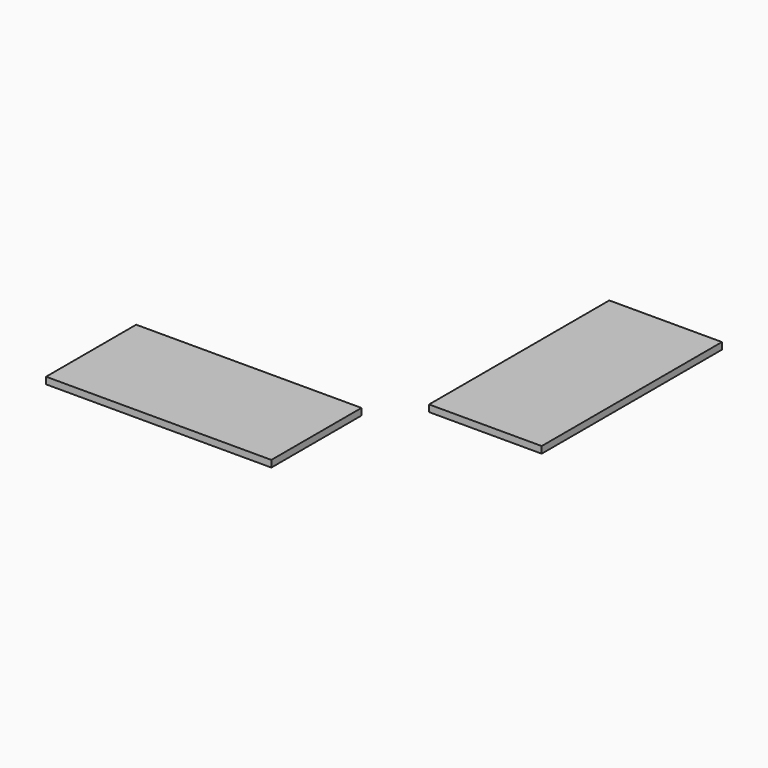
from build123d import *

# Parameters (mm, degrees)
BOX_W     = 300
BOX_H     = 600
BOX_DEPTH = 18
SKETCH_W  = 600
SKETCH_H  = 300
PAD_DEPTH = 18


with BuildPart() as cube:
    # Box → Box (new body)
    with BuildSketch(Plane.XY):
        with Locations((150, 300)):
            Rectangle(BOX_W, BOX_H)
    extrude(amount=BOX_DEPTH)


with BuildPart() as body:
    # Sketch → Pad (new body)
    with BuildSketch(Plane(origin=(-100, -100, 0), x_dir=(1, 0, 0), z_dir=(0, 0, 1))):
        with Locations((-300, -150)):
            Rectangle(SKETCH_W, SKETCH_H)
    extrude(amount=PAD_DEPTH)


solid = Compound([cube.part, body.part])
